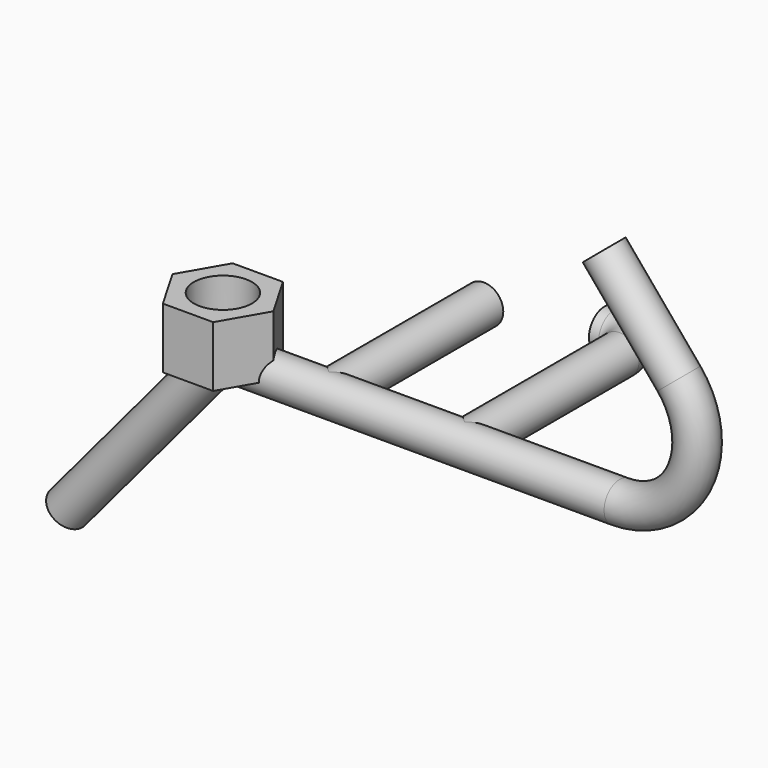
from build123d import *

# Parameters (mm, degrees)
F1_R      = 6.35
F4_R      = 6.35
F5_DEPTH  = 63.5
F5_FACE_R = 6.35
F8_R      = 9.525
F9_DEPTH  = 19.84375


with BuildPart() as f2:
    # F2: sweep along a path in F0
    with BuildLine(Plane.XZ) as f2_path:
        Line((0, 0), (120.65, 0))
        ThreePointArc((120.65, 0), (143.6702177907, 14.6654961518), (140.1075288552, 41.726805286))
        Line((140.1075288552, 41.726805286), (115.6173209262, 70.9130985689))
    # F1 (on Right) → F2 (sweep)
    with BuildSketch(Plane.YZ):
        Circle(F1_R)
    sweep(path=f2_path.line)

    # F3: sweep along a path in F0
    with BuildLine(Plane.XZ) as f3_path:
        Line((0, 0), (-6.35, 0))
        ThreePointArc((-6.35, 0), (-9.0336259621, -0.5949455523), (-11.2143822138, -2.2682986785))
        Line((-11.2143822138, -2.2682986785), (-60.1947980719, -60.6408852442))
    # F1 (on Right) → F3 (sweep)
    with BuildSketch(Plane.YZ):
        Circle(F1_R)
    sweep(path=f3_path.line)

    # F4 (on Front) → F5 (join)
    with BuildSketch(Plane.XZ):
        with Locations((25.4, 0)):
            Circle(F4_R)
        with Locations((69.85, 0)):
            Circle(F4_R)
    extrude(amount=-F5_DEPTH)

    # F7: sweep along a path in F6
    with BuildLine(Plane.XY) as f7_path:
        ThreePointArc((69.85, 63.5), (67.2461792847, 69.7861792847), (60.96, 72.39))
        Line((60.96, 72.39), (57.785, 72.39))
    # F5_face (on face) → F7 (sweep)
    with BuildSketch(Plane(origin=(69.85, 63.5, 0), x_dir=(1, 0, 0), z_dir=(0, 1, 0))):
        Circle(F5_FACE_R)
    sweep(path=f7_path.line)


with BuildPart() as f9:
    # F8 (on Top) → F9 (new body)
    with BuildSketch(Plane.XY):
        Polygon((9.5146208037, -2.8906361649), (1.2657288326, 11.3968638351), (-15.2320551094, 11.3968638351), (-23.4809470805, -2.8906361649), (-15.2320551094, -17.1781361649), (1.2657288326, -17.1781361649), align=None)
        with Locations((-6.9831631384, -2.8906361649)):
            Circle(F8_R, mode=Mode.SUBTRACT)
    extrude(amount=F9_DEPTH)


solid = Compound([f2.part, f9.part])
